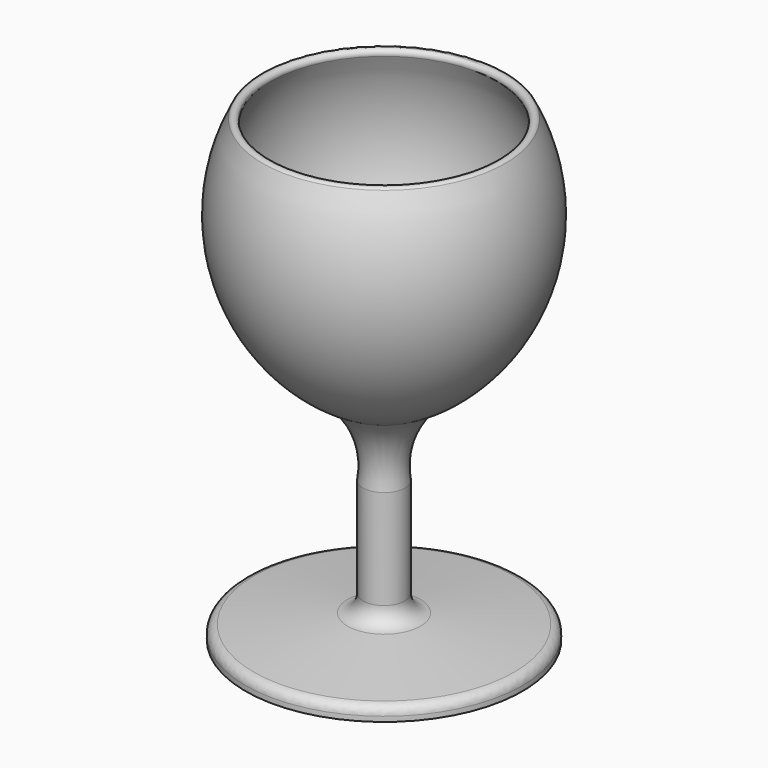
from build123d import *

# Parameters (mm, degrees)
F2_R = 5


with BuildPart() as f1:
    # F0 (on Front) → F1 (revolve)
    with BuildSketch(Plane.XZ):
        with BuildLine():
            Line((-75.374998, 0), (0, 0))
            Line((0, 0), (0, 120.582096))
            Line((0, 120.582096), (-23.129036, 120.582096))
            ThreePointArc((-23.129036, 120.582096), (-68.275081, 176.293662), (-61.726368, 247.701353))
            ThreePointArc((-61.726368, 247.701353), (-62.953347, 250.769178), (-66.166662, 250))
            ThreePointArc((-66.166662, 250), (-73.059404, 174.840994), (-25.541667, 116.20269))
            ThreePointArc((-25.541667, 116.20269), (-13.402531, 98.247392), (-11.458336, 76.661021))
            Line((-11.458336, 76.661021), (-11.458336, 22.494357))
            ThreePointArc((-11.458336, 22.494357), (-13.816117, 16.186302), (-19.806048, 13.108734))
            Line((-19.806048, 13.108734), (-75.374998, 7.231249))
            Line((-75.374998, 7.231249), (-75.374998, 0))
        make_face()
    revolve(axis=Axis((0, 0, 125), (0, 0, 1)))

    # F2
    f2_edges = [f1.edges().sort_by_distance(p)[0] for p in [
        (75.374998, 0, 7.231249),
    ]]
    fillet(f2_edges, radius=F2_R)


solid = f1.part
